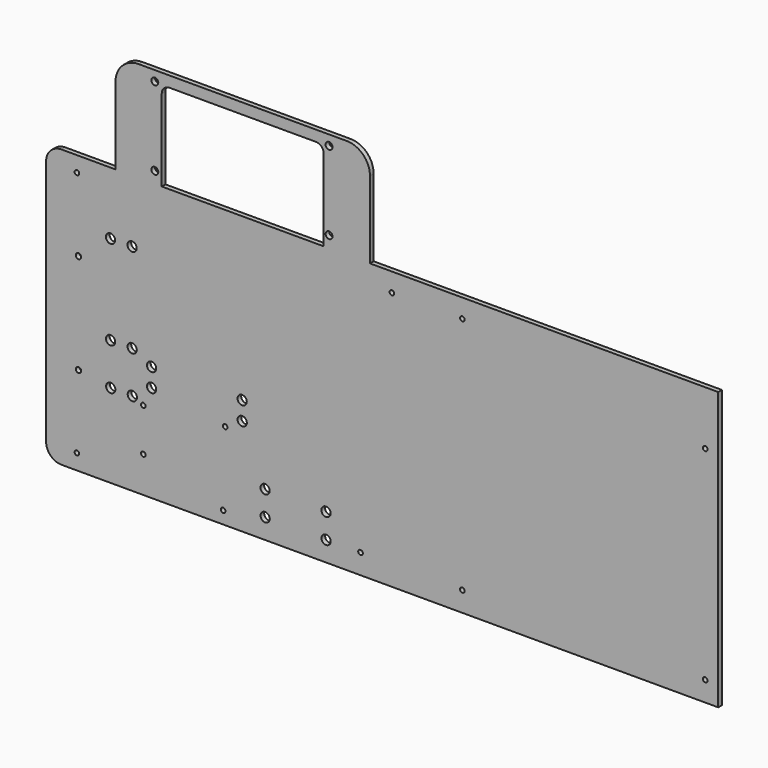
from build123d import *

# Parameters (mm, degrees)
F0_R     = 2.25
F0_R_2   = 1.5
F0_R_3   = 3
F0_W     = 71.6
F0_H     = 55.3
F0_W_2   = 30
F0_H_2   = 130
F0_W_3   = 243.84
F0_H_3   = 173
F0_R_4   = 1.75
F1_DEPTH = 3
F2_R     = 10


with BuildPart() as f1:
    # F0 (on Front) → F1 (new body)
    with BuildSketch(Plane.XZ):
        with BuildLine():
            Line((-179.2, 113.305101), (-179.2, 63.305101))
            Line((-179.2, 63.305101), (-163.2, 63.305101))
            Line((-163.2, 63.305101), (-149.2, 63.305101))
            Line((-149.2, 63.305101), (-149.2, 116.305101))
            ThreePointArc((-149.2, 116.305101), (-147.735534, 119.840635), (-144.2, 121.305101))
            Line((-144.2, 121.305101), (-49.2, 121.305101))
            ThreePointArc((-49.2, 121.305101), (-45.664466, 119.840635), (-44.2, 116.305101))
            Line((-44.2, 116.305101), (-44.2, 63.305101))
            Line((-44.2, 63.305101), (-43.607167, 63.305101))
            Line((-43.607167, 63.305101), (-36.2, 63.305101))
            Line((-36.2, 63.305101), (-14.2, 63.305101))
            Line((-14.2, 63.305101), (-14.2, 113.305101))
            ThreePointArc((-14.2, 113.305101), (-18.593398, 123.911702), (-29.2, 128.305101))
            Line((-29.2, 128.305101), (-163.2, 128.305101))
            Line((-163.2, 128.305101), (-164.2, 128.305101))
            ThreePointArc((-164.2, 128.305101), (-174.806602, 123.911702), (-179.2, 113.305101))
        make_face()
        with Locations((-153.7, 70.805101)):
            Circle(F0_R, mode=Mode.SUBTRACT)
        with Locations((-153.704742, 121.805101)):
            Circle(F0_R, mode=Mode.SUBTRACT)
        with Locations((-40.7, 70.805101)):
            Circle(F0_R, mode=Mode.SUBTRACT)
        with Locations((-40.704742, 121.805101)):
            Circle(F0_R, mode=Mode.SUBTRACT)
        with BuildLine():
            Line((-179.2, 63.305101), (-224.2, 63.305101))
            Line((-224.2, 63.305101), (-224.2, -116.694899))
            Line((-224.2, -116.694899), (211.64, -116.694899))
            Line((211.64, -116.694899), (211.64, 63.305101))
            Line((211.64, 63.305101), (-14.2, 63.305101))
            Line((-14.2, 63.305101), (-36.2, 63.305101))
            Line((-36.2, 63.305101), (-36.2, -38.694899))
            Line((-36.2, -38.694899), (-96.871792, -38.694899))
            ThreePointArc((-96.871792, -38.694899), (-94.876352, -39.636759), (-94.064873, -41.68868))
            ThreePointArc((-94.064873, -41.68868), (-99.116794, -43.8772), (-97.257953, -38.694899))
            Line((-97.257953, -38.694899), (-163.2, -38.694899))
            Line((-163.2, -38.694899), (-163.2, 63.305101))
            Line((-163.2, 63.305101), (-179.2, 63.305101))
        make_face()
        with Locations((-204.2, -106.694899)):
            Circle(F0_R_2, mode=Mode.SUBTRACT)
        with Locations((-182.293021, -62.426161)):
            Circle(F0_R_3, mode=Mode.SUBTRACT)
        with Locations((-127.878605, -84.55086)):
            Rectangle(F0_W, F0_H, mode=Mode.SUBTRACT)
        with Locations((-168.293021, -62.443685)):
            Circle(F0_R_3, mode=Mode.SUBTRACT)
        with Locations((-82.145924, -103.675909)):
            Circle(F0_R_3, mode=Mode.SUBTRACT)
        with Locations((-82.184737, -87.675909)):
            Circle(F0_R_3, mode=Mode.SUBTRACT)
        with Locations((-42.651812, -103.716843)):
            Circle(F0_R_3, mode=Mode.SUBTRACT)
        with Locations((-42.690625, -87.716843)):
            Circle(F0_R_3, mode=Mode.SUBTRACT)
        with Locations((-182.38479, -35.251863)):
            Circle(F0_R_3, mode=Mode.SUBTRACT)
        with Locations((-155.771547, -53.774103)):
            Circle(F0_R_3, mode=Mode.SUBTRACT)
        with Locations((-155.810359, -41.774103)):
            Circle(F0_R_3, mode=Mode.SUBTRACT)
        with Locations((-168.38479, -35.269387)):
            Circle(F0_R_3, mode=Mode.SUBTRACT)
        with Locations((-203.2, -24.000519)):
            Rectangle(F0_W_2, F0_H_2, mode=Mode.SUBTRACT)
        with Locations((-97.02606, -53.68868)):
            Circle(F0_R_3, mode=Mode.SUBTRACT)
        with Locations((87.72, -25.194899)):
            Rectangle(F0_W_3, F0_H_3, mode=Mode.SUBTRACT)
        with Locations((-182.422297, 22.783056)):
            Circle(F0_R_3, mode=Mode.SUBTRACT)
        with Locations((-168.422297, 22.765532)):
            Circle(F0_R_3, mode=Mode.SUBTRACT)
        with Locations((-204.2, 53.305101)):
            Circle(F0_R_2, mode=Mode.SUBTRACT)
        with Locations((-203.2, -24.000519)):
            Rectangle(F0_W_2, F0_H_2)
        with Locations((-203.2, -59.000519)):
            Circle(F0_R_4, mode=Mode.SUBTRACT)
        with Locations((-203.2, 5.999481)):
            Circle(F0_R_4, mode=Mode.SUBTRACT)
        with Locations((-127.878605, -84.55086)):
            Rectangle(F0_W, F0_H)
        with Locations((-161.178605, -93.40086)):
            Circle(F0_R_2, mode=Mode.SUBTRACT)
        with Locations((-161.178605, -65.50086)):
            Circle(F0_R_2, mode=Mode.SUBTRACT)
        with Locations((-109.378605, -108.60086)):
            Circle(F0_R_2, mode=Mode.SUBTRACT)
        with Locations((-108.078605, -60.40086)):
            Circle(F0_R_2, mode=Mode.SUBTRACT)
        with BuildLine():
            Line((-149.2, 63.305101), (-163.2, 63.305101))
            Line((-163.2, 63.305101), (-163.2, -38.694899))
            Line((-163.2, -38.694899), (-97.257953, -38.694899))
            ThreePointArc((-97.257953, -38.694899), (-97.064873, -38.68868), (-96.871792, -38.694899))
            Line((-96.871792, -38.694899), (-36.2, -38.694899))
            Line((-36.2, -38.694899), (-36.2, 63.305101))
            Line((-36.2, 63.305101), (-43.607167, 63.305101))
            Line((-43.607167, 63.305101), (-44.2, 63.305101))
            Line((-44.2, 63.305101), (-141.720161, 63.305101))
            Line((-141.720161, 63.305101), (-149.2, 63.305101))
        make_face()
        with Locations((87.72, -25.194899)):
            Rectangle(F0_W_3, F0_H_3)
        with Locations((-20.32, -103.694899)):
            Circle(F0_R_2, mode=Mode.SUBTRACT)
        with Locations((45.72, -103.694899)):
            Circle(F0_R_2, mode=Mode.SUBTRACT)
        with Locations((203.2, -103.694899)):
            Circle(F0_R_2, mode=Mode.SUBTRACT)
        with Locations((0, 51.145101)):
            Circle(F0_R_2, mode=Mode.SUBTRACT)
        with Locations((45.72, 51.145101)):
            Circle(F0_R_2, mode=Mode.SUBTRACT)
        with Locations((203.2, 28.295101)):
            Circle(F0_R_2, mode=Mode.SUBTRACT)
    extrude(amount=F1_DEPTH)

    # F2
    f2_edges = [f1.edges().sort_by_distance(p)[0] for p in [
        (-224.2, -1.5, 63.305101),
        (-224.2, -1.5, -116.694899),
    ]]
    fillet(f2_edges, radius=F2_R)


solid = f1.part
